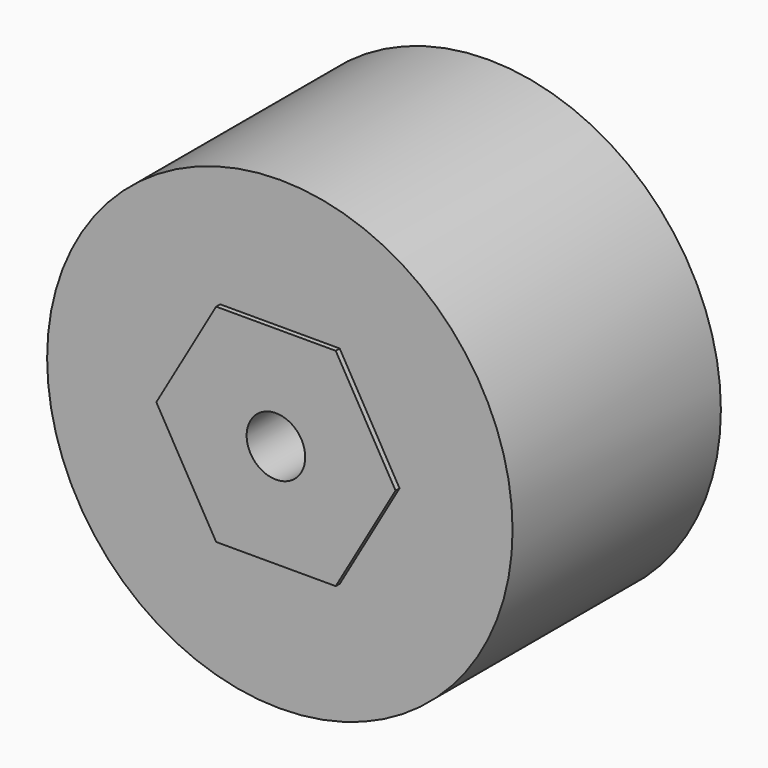
from build123d import *

# Parameters (mm, degrees)
F0_R     = 1.8
F1_DEPTH = 16.3
F2_R     = 14.3
F3_DEPTH = 16


with BuildPart() as f1:
    # F0 (on Front) → F1 (new body)
    with BuildSketch(Plane.XZ):
        Polygon((3.674834, 6.365), (-3.674834, 6.365), (-7.349669, 0), (-3.674834, -6.365), (3.674834, -6.365), (7.349669, 0), align=None)
        Circle(F0_R, mode=Mode.SUBTRACT)
    extrude(amount=F1_DEPTH)


with BuildPart() as f3:
    # F2 (on Front) → F3 (new body)
    with BuildSketch(Plane.XZ):
        Circle(F2_R)
        Polygon((-7.355442, 0), (-3.677721, 6.37), (3.677721, 6.37), (7.355442, 0), (3.677721, -6.37), (-3.677721, -6.37), align=None, mode=Mode.SUBTRACT)
    extrude(amount=F3_DEPTH)


solid = Compound([f1.part, f3.part])
